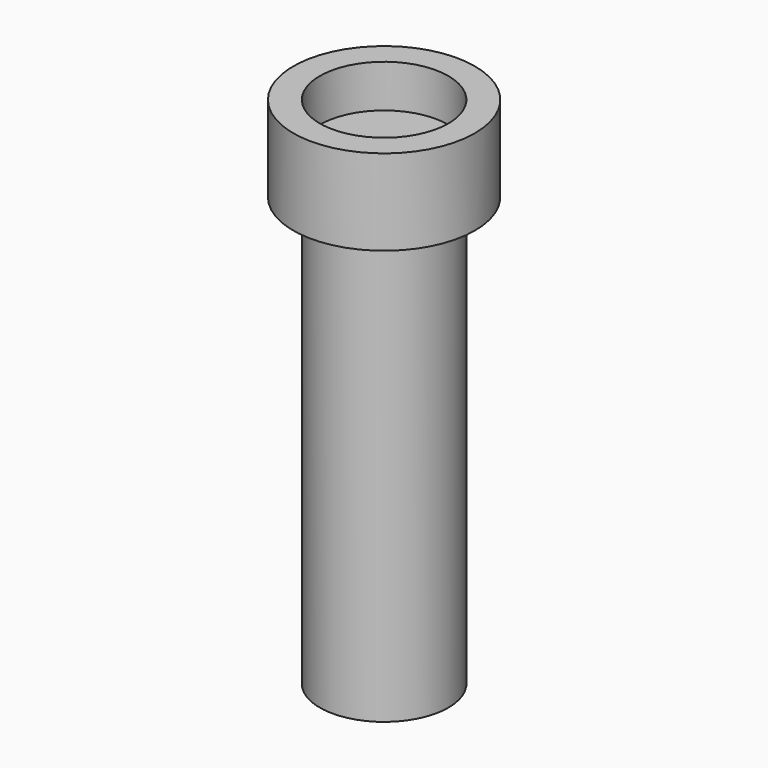
from build123d import *

# Parameters (mm, degrees)
F0_R     = 3.81
F1_DEPTH = 25.4
F2_R     = 5.3793870979
F2_R_2   = 3.81
F3_DEPTH = 5.08
F4_R     = 3.81
F5_DEPTH = 2.54


with BuildPart() as f1:
    # F0 (on Top) → F1 (new body)
    with BuildSketch(Plane.XY):
        with Locations((10.3501314297, 0)):
            Circle(F0_R)
    extrude(amount=F1_DEPTH)

    # F2 (on face) → F3 (join)
    with BuildSketch(Plane.XY.offset(25.4)):
        with Locations((10.3501314297, 0)):
            Circle(F2_R)
        with Locations((10.3501314297, 0)):
            Circle(F2_R_2, mode=Mode.SUBTRACT)
        with Locations((10.3501314297, 0)):
            Circle(F2_R_2)
    extrude(amount=F3_DEPTH)

    # F4 (on face) → F5 (cut)
    with BuildSketch(Plane.XY.offset(30.48)):
        with Locations((10.3501314297, 0)):
            Circle(F4_R)
    extrude(amount=-F5_DEPTH, mode=Mode.SUBTRACT)


solid = f1.part
